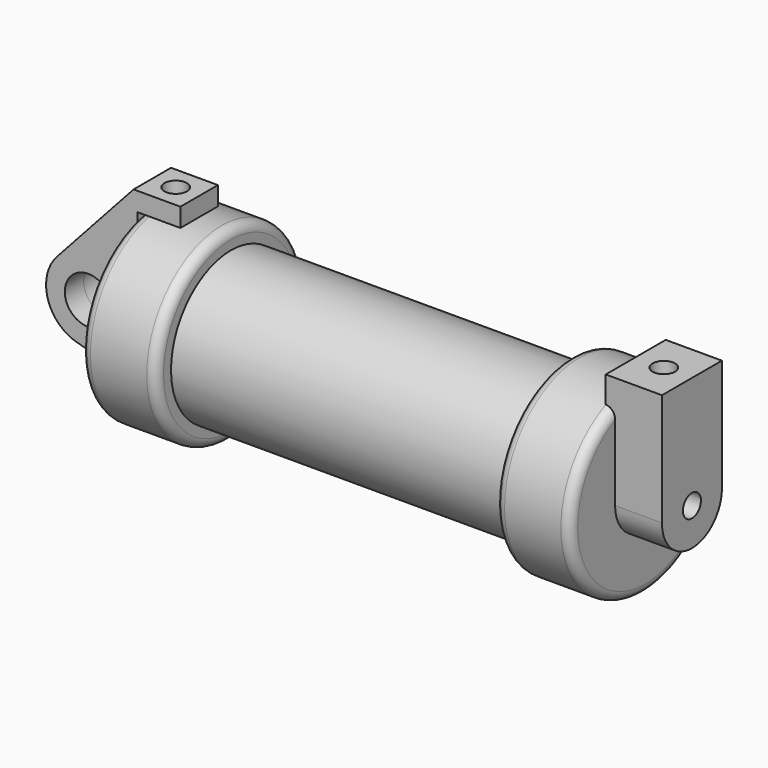
from build123d import *

# Parameters (mm, degrees)
F0_W          = 5.842
F0_H          = 12.7
F0_R          = 3.175
F2_DEPTH      = 3.175
F2_DEPTH_BACK = 3.175
F3_R          = 1.524
F4_DEPTH      = 6.35
F4_DEPTH_BACK = 1.27
F5_DEPTH      = 56.134
F7_R          = 1.524
F8_DEPTH      = 10.414
F6_R          = 1.524
F9_DEPTH      = 17.78
F10_R         = 1.27


with BuildPart() as f1:
    # F0 (on Front) → F1 (revolve)
    with BuildSketch(Plane.XZ):
        Polygon((5.842, 12.7), (5.842, 0), (66.294, 0), (66.294, 12.7), (56.134, 12.7), (56.134, 10.16), (10.16, 10.16), (10.16, 12.7), align=None)
        with Locations((2.921, 6.35)):
            Rectangle(F0_W, F0_H)
    revolve(axis=Axis((33.147, 0, 0), (-1, 0, 0)))

    # F3 (on face) → F4 (join, two sides)
    with BuildSketch(Plane.YZ.offset(66.294)) as f4_sk:
        with BuildLine():
            ThreePointArc((-5.08, 11.6397422652), (0, 12.7), (5.08, 11.6397422652))
            Line((5.08, 11.6397422652), (5.08, 15.24))
            Line((5.08, 15.24), (-5.08, 15.24))
            Line((-5.08, 15.24), (-5.08, 11.6397422652))
        make_face()
        with BuildLine():
            ThreePointArc((-5.08, 0), (0, 5.08), (5.08, 0))
            Line((5.08, 0), (5.08, 11.6397422652))
            ThreePointArc((5.08, 11.6397422652), (0, 12.7), (-5.08, 11.6397422652))
            Line((-5.08, 11.6397422652), (-5.08, 0))
        make_face()
        with BuildLine():
            ThreePointArc((-5.08, 0), (0, -5.08), (5.08, 0))
            ThreePointArc((5.08, 0), (0, 5.08), (-5.08, 0))
        make_face()
        Circle(F3_R, mode=Mode.SUBTRACT)
    extrude(amount=F4_DEPTH)
    extrude(f4_sk.sketch, amount=-F4_DEPTH_BACK)

    # F3 (on face) → F5 (cut)
    with BuildSketch(Plane.YZ.offset(66.294)):
        Circle(F3_R)
    extrude(amount=-F5_DEPTH, mode=Mode.SUBTRACT)

    # F7 (on face) → F8 (cut)
    with BuildSketch(Plane.XY.offset(15.24)):
        with Locations((68.834, 0)):
            Circle(F7_R)
    extrude(amount=-F8_DEPTH, mode=Mode.SUBTRACT)

    # F10
    f10_edges = [f1.edges().sort_by_distance(p)[0] for p in [
        (0, 0, -12.7),
        (10.16, 0, -12.7),
        (56.134, 0, -12.7),
        (66.294, 0, -12.7),
    ]]
    fillet(f10_edges, radius=F10_R)


with BuildPart() as f2:
    # F0 (on Front) → F2 (new body, two sides)
    with BuildSketch(Plane.XZ) as f2_sk:
        with BuildLine():
            Line((5.842, 0), (0, 0))
            Line((0, 0), (-0.9398, 0))
            ThreePointArc((-0.9398, 0), (-3.1957909266, -4.5493385486), (-8.1826630726, -5.5069827884))
            Line((-8.1826630726, -5.5069827884), (5.842, -9.398))
            Line((5.842, -9.398), (5.842, 0))
        make_face()
        with BuildLine():
            ThreePointArc((-8.1826630726, -5.5069827884), (-3.1957909266, -4.5493385486), (-0.9398, 0))
            ThreePointArc((-0.9398, 0), (-4.5919612295, 5.3297205562), (-10.8806298187, 3.8475430269))
            ThreePointArc((-10.8806298187, 3.8475430269), (-12.1459778134, -1.5837270034), (-8.1826630726, -5.5069827884))
        make_face()
        with Locations((-6.6548, 0)):
            Circle(F0_R, mode=Mode.SUBTRACT)
        with BuildLine():
            Line((-0.9398, 0), (0, 0))
            Line((0, 0), (0, 12.7))
            Line((0, 12.7), (5.842, 12.7))
            Line((5.842, 12.7), (5.842, 15.24))
            Line((5.842, 15.24), (-0.508, 15.24))
            Line((-0.508, 15.24), (-10.8806298187, 3.8475430269))
            ThreePointArc((-10.8806298187, 3.8475430269), (-4.5919612295, 5.3297205562), (-0.9398, 0))
        make_face()
    extrude(amount=F2_DEPTH)
    extrude(f2_sk.sketch, amount=-F2_DEPTH_BACK)

    # F6 (on face) → F9 (cut)
    with BuildSketch(Plane.XY.offset(15.24)):
        with Locations((2.667, 0)):
            Circle(F6_R)
    extrude(amount=-F9_DEPTH, mode=Mode.SUBTRACT)


solid = Compound([f1.part, f2.part])
